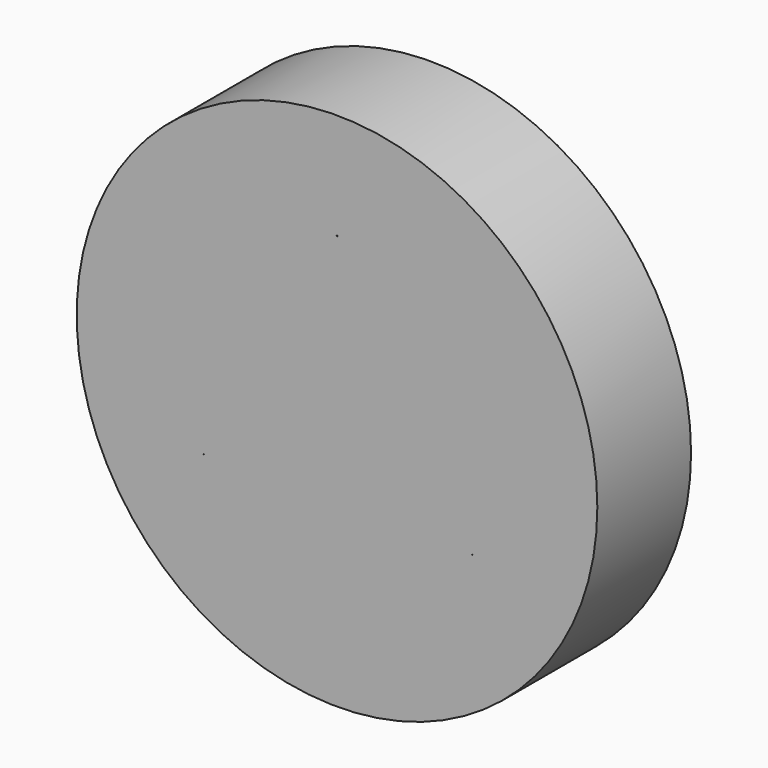
from build123d import *

# Parameters (mm, degrees)
F0_R     = 84.671191
F1_DEPTH = 31.75
F2_R     = 84.671191
F3_DEPTH = 6.35
F5_D     = 0.254


with BuildPart() as f1:
    # F0 (on Front) → F1 (new body)
    with BuildSketch(Plane.XZ):
        Circle(F0_R)
        with BuildLine():
            ThreePointArc((78.296166, 1.754441), (78.310906, 0.877275), (78.31582, 0))
            ThreePointArc((78.31582, 0), (78.310902, -0.877705), (78.296147, -1.755299))
            ThreePointArc((78.296147, -1.755299), (78.241262, -3.416517), (78.151135, -5.076196))
            ThreePointArc((78.151135, -5.076196), (78.017767, -6.826101), (77.845222, -8.572578))
            ThreePointArc((77.845222, -8.572578), (77.645761, -10.222691), (77.411327, -11.8682))
            ThreePointArc((77.411327, -11.8682), (77.125952, -13.599822), (76.801848, -15.324615))
            ThreePointArc((76.801848, -15.324615), (76.459329, -16.951065), (76.082371, -18.569879))
            ThreePointArc((76.082371, -18.569879), (75.647162, -20.27004), (75.173965, -21.960022))
            ThreePointArc((75.173965, -21.960022), (74.690996, -23.550431), (74.174383, -25.130231))
            ThreePointArc((74.174383, -25.130231), (73.592651, -26.785991), (72.973964, -28.428301))
            ThreePointArc((72.973964, -28.428301), (72.354219, -29.970563), (71.701884, -31.499326))
            ThreePointArc((71.701884, -31.499326), (70.978056, -33.098085), (70.218586, -34.680222))
            ThreePointArc((70.218586, -34.680222), (69.466783, -36.162602), (68.683689, -37.628693))
            ThreePointArc((68.683689, -37.628693), (67.823275, -39.158282), (66.928803, -40.668207))
            ThreePointArc((66.928803, -40.668207), (66.050662, -42.079421), (65.14277, -43.471682))
            ThreePointArc((65.14277, -43.471682), (64.152318, -44.920461), (63.129651, -46.346681))
            ThreePointArc((63.129651, -46.346681), (62.131856, -47.675991), (61.106076, -48.983826))
            ThreePointArc((61.106076, -48.983826), (59.993123, -50.340768), (58.850044, -51.67243))
            ThreePointArc((58.850044, -51.67243), (57.740189, -52.909718), (56.604327, -54.123173))
            ThreePointArc((56.604327, -54.123173), (55.377344, -55.377951), (54.122553, -56.60492))
            ThreePointArc((54.122553, -56.60492), (52.909085, -57.740769), (51.671785, -58.85061))
            ThreePointArc((51.671785, -58.85061), (50.34011, -59.993675), (48.983156, -61.106612))
            ThreePointArc((48.983156, -61.106612), (47.67531, -62.132379), (46.34599, -63.130159))
            ThreePointArc((46.34599, -63.130159), (44.919757, -64.15281), (43.470968, -65.143247))
            ThreePointArc((43.470968, -65.143247), (42.078697, -66.051123), (40.667473, -66.929248))
            ThreePointArc((40.667473, -66.929248), (39.157538, -67.823704), (37.62794, -68.684102))
            ThreePointArc((37.62794, -68.684102), (36.161841, -69.467179), (34.679453, -70.218966))
            ThreePointArc((34.679453, -70.218966), (33.097307, -70.978419), (31.49854, -71.702229))
            ThreePointArc((31.49854, -71.702229), (29.96977, -72.354547), (28.427501, -72.974275))
            ThreePointArc((28.427501, -72.974275), (26.785185, -73.592945), (25.129418, -74.174659))
            ThreePointArc((25.129418, -74.174659), (23.549612, -74.691254), (21.959199, -75.174206))
            ThreePointArc((21.959199, -75.174206), (20.269211, -75.647384), (18.569045, -76.082575))
            ThreePointArc((18.569045, -76.082575), (16.950227, -76.459515), (15.323773, -76.802016))
            ThreePointArc((15.323773, -76.802016), (13.598977, -77.126101), (11.867351, -77.411457))
            ThreePointArc((11.867351, -77.411457), (10.22184, -77.645873), (8.571725, -77.845316))
            ThreePointArc((8.571725, -77.845316), (6.825246, -78.017842), (5.075339, -78.151191))
            ThreePointArc((5.075339, -78.151191), (3.415659, -78.241299), (1.754441, -78.296166))
            ThreePointArc((1.754441, -78.296166), (-0.000429, -78.31582), (-1.755299, -78.296147))
            ThreePointArc((-1.755299, -78.296147), (-3.416517, -78.241262), (-5.076196, -78.151135))
            ThreePointArc((-5.076196, -78.151135), (-6.826101, -78.017767), (-8.572578, -77.845222))
            ThreePointArc((-8.572578, -77.845222), (-10.222691, -77.645761), (-11.8682, -77.411327))
            ThreePointArc((-11.8682, -77.411327), (-13.599822, -77.125952), (-15.324615, -76.801848))
            ThreePointArc((-15.324615, -76.801848), (-16.951065, -76.459329), (-18.569879, -76.082371))
            ThreePointArc((-18.569879, -76.082371), (-20.27004, -75.647162), (-21.960022, -75.173965))
            ThreePointArc((-21.960022, -75.173965), (-23.550431, -74.690996), (-25.130231, -74.174383))
            ThreePointArc((-25.130231, -74.174383), (-26.785991, -73.592651), (-28.428301, -72.973964))
            ThreePointArc((-28.428301, -72.973964), (-29.970563, -72.354219), (-31.499326, -71.701884))
            ThreePointArc((-31.499326, -71.701884), (-33.098085, -70.978056), (-34.680222, -70.218586))
            ThreePointArc((-34.680222, -70.218586), (-36.162602, -69.466783), (-37.628693, -68.683689))
            ThreePointArc((-37.628693, -68.683689), (-39.158282, -67.823275), (-40.668207, -66.928803))
            ThreePointArc((-40.668207, -66.928803), (-42.079421, -66.050662), (-43.471682, -65.14277))
            ThreePointArc((-43.471682, -65.14277), (-44.920461, -64.152318), (-46.346681, -63.129651))
            ThreePointArc((-46.346681, -63.129651), (-47.675991, -62.131856), (-48.983826, -61.106076))
            ThreePointArc((-48.983826, -61.106076), (-50.340768, -59.993123), (-51.67243, -58.850044))
            ThreePointArc((-51.67243, -58.850044), (-52.909718, -57.740189), (-54.123173, -56.604327))
            ThreePointArc((-54.123173, -56.604327), (-55.377951, -55.377344), (-56.60492, -54.122553))
            ThreePointArc((-56.60492, -54.122553), (-57.740769, -52.909085), (-58.85061, -51.671785))
            ThreePointArc((-58.85061, -51.671785), (-59.993675, -50.34011), (-61.106612, -48.983156))
            ThreePointArc((-61.106612, -48.983156), (-62.132379, -47.67531), (-63.130159, -46.34599))
            ThreePointArc((-63.130159, -46.34599), (-64.15281, -44.919757), (-65.143247, -43.470968))
            ThreePointArc((-65.143247, -43.470968), (-66.051123, -42.078697), (-66.929248, -40.667473))
            ThreePointArc((-66.929248, -40.667473), (-67.823704, -39.157538), (-68.684102, -37.62794))
            ThreePointArc((-68.684102, -37.62794), (-69.467179, -36.161841), (-70.218966, -34.679453))
            ThreePointArc((-70.218966, -34.679453), (-70.978419, -33.097307), (-71.702229, -31.49854))
            ThreePointArc((-71.702229, -31.49854), (-72.354547, -29.96977), (-72.974275, -28.427501))
            ThreePointArc((-72.974275, -28.427501), (-73.592945, -26.785185), (-74.174659, -25.129418))
            ThreePointArc((-74.174659, -25.129418), (-74.691254, -23.549612), (-75.174206, -21.959199))
            ThreePointArc((-75.174206, -21.959199), (-75.647384, -20.269211), (-76.082575, -18.569045))
            ThreePointArc((-76.082575, -18.569045), (-76.459515, -16.950227), (-76.802016, -15.323773))
            ThreePointArc((-76.802016, -15.323773), (-77.126101, -13.598977), (-77.411457, -11.867351))
            ThreePointArc((-77.411457, -11.867351), (-77.645873, -10.22184), (-77.845316, -8.571725))
            ThreePointArc((-77.845316, -8.571725), (-78.017842, -6.825246), (-78.151191, -5.075339))
            ThreePointArc((-78.151191, -5.075339), (-78.241299, -3.415659), (-78.296166, -1.754441))
            ThreePointArc((-78.296166, -1.754441), (-78.31582, 0.000429), (-78.296147, 1.755299))
            ThreePointArc((-78.296147, 1.755299), (-78.241262, 3.416517), (-78.151135, 5.076196))
            ThreePointArc((-78.151135, 5.076196), (-78.017767, 6.826101), (-77.845222, 8.572578))
            ThreePointArc((-77.845222, 8.572578), (-77.645761, 10.222691), (-77.411327, 11.8682))
            ThreePointArc((-77.411327, 11.8682), (-77.125952, 13.599822), (-76.801848, 15.324615))
            ThreePointArc((-76.801848, 15.324615), (-76.459329, 16.951065), (-76.082371, 18.569879))
            ThreePointArc((-76.082371, 18.569879), (-75.647162, 20.27004), (-75.173965, 21.960022))
            ThreePointArc((-75.173965, 21.960022), (-74.690996, 23.550431), (-74.174383, 25.130231))
            ThreePointArc((-74.174383, 25.130231), (-73.592651, 26.785991), (-72.973964, 28.428301))
            ThreePointArc((-72.973964, 28.428301), (-72.354219, 29.970563), (-71.701884, 31.499326))
            ThreePointArc((-71.701884, 31.499326), (-70.978056, 33.098085), (-70.218586, 34.680222))
            ThreePointArc((-70.218586, 34.680222), (-69.466783, 36.162602), (-68.683689, 37.628693))
            ThreePointArc((-68.683689, 37.628693), (-67.823275, 39.158282), (-66.928803, 40.668207))
            ThreePointArc((-66.928803, 40.668207), (-66.050662, 42.079421), (-65.14277, 43.471682))
            ThreePointArc((-65.14277, 43.471682), (-64.152318, 44.920461), (-63.129651, 46.346681))
            ThreePointArc((-63.129651, 46.346681), (-62.131856, 47.675991), (-61.106076, 48.983826))
            ThreePointArc((-61.106076, 48.983826), (-59.993123, 50.340768), (-58.850044, 51.67243))
            ThreePointArc((-58.850044, 51.67243), (-57.740189, 52.909718), (-56.604327, 54.123173))
            ThreePointArc((-56.604327, 54.123173), (-55.377344, 55.377951), (-54.122553, 56.60492))
            ThreePointArc((-54.122553, 56.60492), (-52.909085, 57.740769), (-51.671785, 58.85061))
            ThreePointArc((-51.671785, 58.85061), (-50.34011, 59.993675), (-48.983156, 61.106612))
            ThreePointArc((-48.983156, 61.106612), (-47.67531, 62.132379), (-46.34599, 63.130159))
            ThreePointArc((-46.34599, 63.130159), (-44.919757, 64.15281), (-43.470968, 65.143247))
            ThreePointArc((-43.470968, 65.143247), (-42.078697, 66.051123), (-40.667473, 66.929248))
            ThreePointArc((-40.667473, 66.929248), (-39.157538, 67.823704), (-37.62794, 68.684102))
            ThreePointArc((-37.62794, 68.684102), (-36.161841, 69.467179), (-34.679453, 70.218966))
            ThreePointArc((-34.679453, 70.218966), (-33.097307, 70.978419), (-31.49854, 71.702229))
            ThreePointArc((-31.49854, 71.702229), (-29.96977, 72.354547), (-28.427501, 72.974275))
            ThreePointArc((-28.427501, 72.974275), (-26.785185, 73.592945), (-25.129418, 74.174659))
            ThreePointArc((-25.129418, 74.174659), (-23.549612, 74.691254), (-21.959199, 75.174206))
            ThreePointArc((-21.959199, 75.174206), (-20.269211, 75.647384), (-18.569045, 76.082575))
            ThreePointArc((-18.569045, 76.082575), (-16.950227, 76.459515), (-15.323773, 76.802016))
            ThreePointArc((-15.323773, 76.802016), (-13.598977, 77.126101), (-11.867351, 77.411457))
            ThreePointArc((-11.867351, 77.411457), (-10.22184, 77.645873), (-8.571725, 77.845316))
            ThreePointArc((-8.571725, 77.845316), (-6.825246, 78.017842), (-5.075339, 78.151191))
            ThreePointArc((-5.075339, 78.151191), (-3.415659, 78.241299), (-1.754441, 78.296166))
            ThreePointArc((-1.754441, 78.296166), (0.000429, 78.31582), (1.755299, 78.296147))
            ThreePointArc((1.755299, 78.296147), (3.416517, 78.241262), (5.076196, 78.151135))
            ThreePointArc((5.076196, 78.151135), (6.826101, 78.017767), (8.572578, 77.845222))
            ThreePointArc((8.572578, 77.845222), (10.222691, 77.645761), (11.8682, 77.411327))
            ThreePointArc((11.8682, 77.411327), (13.599822, 77.125952), (15.324615, 76.801848))
            ThreePointArc((15.324615, 76.801848), (16.951065, 76.459329), (18.569879, 76.082371))
            ThreePointArc((18.569879, 76.082371), (20.27004, 75.647162), (21.960022, 75.173965))
            ThreePointArc((21.960022, 75.173965), (23.550431, 74.690996), (25.130231, 74.174383))
            ThreePointArc((25.130231, 74.174383), (26.785991, 73.592651), (28.428301, 72.973964))
            ThreePointArc((28.428301, 72.973964), (29.970563, 72.354219), (31.499326, 71.701884))
            ThreePointArc((31.499326, 71.701884), (33.098085, 70.978056), (34.680222, 70.218586))
            ThreePointArc((34.680222, 70.218586), (36.162602, 69.466783), (37.628693, 68.683689))
            ThreePointArc((37.628693, 68.683689), (39.158282, 67.823275), (40.668207, 66.928803))
            ThreePointArc((40.668207, 66.928803), (42.079421, 66.050662), (43.471682, 65.14277))
            ThreePointArc((43.471682, 65.14277), (44.920461, 64.152318), (46.346681, 63.129651))
            ThreePointArc((46.346681, 63.129651), (47.675991, 62.131856), (48.983826, 61.106076))
            ThreePointArc((48.983826, 61.106076), (50.340768, 59.993123), (51.67243, 58.850044))
            ThreePointArc((51.67243, 58.850044), (52.909718, 57.740189), (54.123173, 56.604327))
            ThreePointArc((54.123173, 56.604327), (55.377951, 55.377344), (56.60492, 54.122553))
            ThreePointArc((56.60492, 54.122553), (57.740769, 52.909085), (58.85061, 51.671785))
            ThreePointArc((58.85061, 51.671785), (59.993675, 50.34011), (61.106612, 48.983156))
            ThreePointArc((61.106612, 48.983156), (62.132379, 47.67531), (63.130159, 46.34599))
            ThreePointArc((63.130159, 46.34599), (64.15281, 44.919757), (65.143247, 43.470968))
            ThreePointArc((65.143247, 43.470968), (66.051123, 42.078697), (66.929248, 40.667473))
            ThreePointArc((66.929248, 40.667473), (67.823704, 39.157538), (68.684102, 37.62794))
            ThreePointArc((68.684102, 37.62794), (69.467179, 36.161841), (70.218966, 34.679453))
            ThreePointArc((70.218966, 34.679453), (70.978419, 33.097307), (71.702229, 31.49854))
            ThreePointArc((71.702229, 31.49854), (72.354547, 29.96977), (72.974275, 28.427501))
            ThreePointArc((72.974275, 28.427501), (73.592945, 26.785185), (74.174659, 25.129418))
            ThreePointArc((74.174659, 25.129418), (74.691254, 23.549612), (75.174206, 21.959199))
            ThreePointArc((75.174206, 21.959199), (75.647384, 20.269211), (76.082575, 18.569045))
            ThreePointArc((76.082575, 18.569045), (76.459515, 16.950227), (76.802016, 15.323773))
            ThreePointArc((76.802016, 15.323773), (77.126101, 13.598977), (77.411457, 11.867351))
            ThreePointArc((77.411457, 11.867351), (77.645873, 10.22184), (77.845316, 8.571725))
            ThreePointArc((77.845316, 8.571725), (78.017842, 6.825246), (78.151191, 5.075339))
            ThreePointArc((78.151191, 5.075339), (78.241299, 3.415659), (78.296166, 1.754441))
        make_face(mode=Mode.SUBTRACT)
        with BuildLine():
            Line((-75.810351, 8.439206), (-77.845222, 8.572578))
            ThreePointArc((-77.845222, 8.572578), (-78.017767, 6.826101), (-78.151135, 5.076196))
            Line((-78.151135, 5.076196), (-76.039845, 4.937815))
            ThreePointArc((-76.039845, 4.937815), (-74.938509, 5.299344), (-73.8612, 5.727188))
            Line((-73.8612, 5.727188), (-73.797472, 6.549058))
            Line((-73.797472, 6.549058), (-73.753379, 7.372215))
            ThreePointArc((-73.753379, 7.372215), (-74.765627, 7.937016), (-75.810351, 8.439206))
        make_face()
        with BuildLine():
            Line((-74.786345, 15.0144), (-76.801848, 15.324615))
            ThreePointArc((-76.801848, 15.324615), (-77.125952, 13.599822), (-77.411327, 11.8682))
            Line((-77.411327, 11.8682), (-75.320131, 11.546334))
            ThreePointArc((-75.320131, 11.546334), (-74.191477, 11.8105), (-73.080979, 12.142822))
            Line((-73.080979, 12.142822), (-72.945863, 12.956011))
            Line((-72.945863, 12.956011), (-72.830194, 13.772192))
            ThreePointArc((-72.830194, 13.772192), (-73.789364, 14.423067), (-74.786345, 15.0144))
        make_face()
        with BuildLine():
            Line((-73.193169, 21.475325), (-75.173965, 21.960022))
            ThreePointArc((-75.173965, 21.960022), (-75.647162, 20.27004), (-76.082371, 18.569879))
            Line((-76.082371, 18.569879), (-74.027186, 18.066979))
            ThreePointArc((-74.027186, 18.066979), (-72.879803, 18.231771), (-71.744567, 18.466042))
            Line((-71.744567, 18.466042), (-71.539091, 19.26436))
            Line((-71.539091, 19.26436), (-71.352728, 20.067355))
            ThreePointArc((-71.352728, 20.067355), (-72.251521, 20.79935), (-73.193169, 21.475325))
        make_face()
        with BuildLine():
            Line((-71.042949, 27.77281), (-72.973964, 28.428301))
            ThreePointArc((-72.973964, 28.428301), (-73.592651, 26.785991), (-74.174383, 25.130231))
            Line((-74.174383, 25.130231), (-72.170849, 24.450123))
            ThreePointArc((-72.170849, 24.450123), (-71.01347, 24.514287), (-69.862135, 24.648724))
            Line((-69.862135, 24.648724), (-69.587863, 25.426096))
            Line((-69.587863, 25.426096), (-69.332224, 26.209792))
            ThreePointArc((-69.332224, 26.209792), (-70.163799, 27.017337), (-71.042949, 27.77281))
        make_face()
        with BuildLine():
            Line((-68.352049, 33.858927), (-70.218586, 34.680222))
            ThreePointArc((-70.218586, 34.680222), (-70.978056, 33.098085), (-71.701884, 31.499326))
            Line((-71.701884, 31.499326), (-69.765249, 30.647187))
            ThreePointArc((-69.765249, 30.647187), (-68.606681, 30.610234), (-67.448011, 30.643815))
            Line((-67.448011, 30.643815), (-67.10703, 31.394324))
            Line((-67.10703, 31.394324), (-66.78406, 32.152758))
            ThreePointArc((-66.78406, 32.152758), (-67.542088, 33.029706), (-68.352049, 33.858927))
        make_face()
        with BuildLine():
            Line((-65.140949, 39.687357), (-66.928803, 40.668207))
            ThreePointArc((-66.928803, 40.668207), (-67.823275, 39.158282), (-68.683689, 37.628693))
            Line((-68.683689, 37.628693), (-66.828693, 36.611007))
            ThreePointArc((-66.828693, 36.611007), (-65.677754, 36.473219), (-64.520567, 36.405687))
            Line((-64.520567, 36.405687), (-64.115472, 37.123622))
            Line((-64.115472, 37.123622), (-63.727629, 37.851021))
            ThreePointArc((-63.727629, 37.851021), (-64.406342, 38.790698), (-65.140949, 39.687357))
        make_face()
        with BuildLine():
            Line((-61.434087, 45.213742), (-63.129651, 46.346681))
            ThreePointArc((-63.129651, 46.346681), (-64.152318, 44.920461), (-65.14277, 43.471682))
            Line((-65.14277, 43.471682), (-63.38353, 42.296195))
            ThreePointArc((-63.38353, 42.296195), (-62.24898, 42.058621), (-61.102082, 41.89049))
            Line((-61.102082, 41.89049), (-60.635957, 42.570387))
            Line((-60.635957, 42.570387), (-60.186192, 43.261215))
            ThreePointArc((-60.186192, 43.261215), (-60.780424, 44.256471), (-61.434087, 45.213742))
        make_face()
        with BuildLine():
            Line((-57.259675, 50.396024), (-58.850044, 51.67243))
            ThreePointArc((-58.850044, 51.67243), (-59.993123, 50.340768), (-61.106076, 48.983826))
            Line((-61.106076, 48.983826), (-59.45598, 47.659484))
            ThreePointArc((-59.45598, 47.659484), (-58.346454, 47.323932), (-57.218573, 47.056482))
            Line((-57.218573, 47.056482), (-56.694965, 47.693166))
            Line((-56.694965, 47.693166), (-56.186702, 48.342166))
            ThreePointArc((-56.186702, 48.342166), (-56.691931, 49.385424), (-57.259675, 50.396024))
        make_face()
        with BuildLine():
            Line((-52.649482, 55.194761), (-54.122553, 56.60492))
            ThreePointArc((-54.122553, 56.60492), (-55.377344, 55.377951), (-56.604327, 54.123173))
            Line((-56.604327, 54.123173), (-55.075934, 52.660056))
            ThreePointArc((-55.075934, 52.660056), (-53.999875, 52.229078), (-52.899596, 51.864345))
            Line((-52.899596, 51.864345), (-52.32249, 52.452971))
            Line((-52.32249, 52.452971), (-51.759598, 53.055203))
            ThreePointArc((-51.759598, 53.055203), (-52.171977, 54.138525), (-52.649482, 55.194761))
        make_face()
        with BuildLine():
            Line((-47.638594, 59.573433), (-48.983156, 61.106612))
            ThreePointArc((-48.983156, 61.106612), (-50.34011, 59.993675), (-51.671785, 58.85061))
            Line((-51.671785, 58.85061), (-50.276728, 57.259852))
            ThreePointArc((-50.276728, 57.259852), (-49.242325, 56.73673), (-48.178022, 56.277489))
            Line((-48.178022, 56.277489), (-47.55181, 56.813577))
            Line((-47.55181, 56.813577), (-46.938571, 57.364458))
            ThreePointArc((-46.938571, 57.364458), (-47.254964, 58.479599), (-47.638594, 59.573433))
        make_face()
        with BuildLine():
            Line((-42.265148, 63.498715), (-43.470968, 65.143247))
            ThreePointArc((-43.470968, 65.143247), (-44.919757, 64.15281), (-46.34599, 63.130159))
            Line((-46.34599, 63.130159), (-45.094885, 61.423867))
            ThreePointArc((-45.094885, 61.423867), (-44.110012, 60.812581), (-43.089784, 60.262327))
            Line((-43.089784, 60.262327), (-42.419231, 60.741797))
            Line((-42.419231, 60.741797), (-41.760314, 61.237135))
            ThreePointArc((-41.760314, 61.237135), (-41.978312, 62.375608), (-42.265148, 63.498715))
        make_face()
        with BuildLine():
            Line((-36.570039, 66.940734), (-37.62794, 68.684102))
            ThreePointArc((-37.62794, 68.684102), (-39.157538, 67.823704), (-40.667473, 66.929248))
            Line((-40.667473, 66.929248), (-39.569842, 65.120408))
            ThreePointArc((-39.569842, 65.120408), (-38.641994, 64.425612), (-37.673606, 63.788533))
            Line((-37.673606, 63.788533), (-36.963817, 64.207736))
            Line((-36.963817, 64.207736), (-36.264235, 64.64376))
            ThreePointArc((-36.264235, 64.64376), (-36.382179, 65.796901), (-36.570039, 66.940734))
        make_face()
        with BuildLine():
            Line((-30.596609, 69.873293), (-31.49854, 71.702229))
            ThreePointArc((-31.49854, 71.702229), (-33.097307, 70.978419), (-34.679453, 70.218966))
            Line((-34.679453, 70.218966), (-33.743649, 68.321345))
            ThreePointArc((-33.743649, 68.321345), (-32.879888, 67.548325), (-31.97071, 66.82927))
            Line((-31.97071, 66.82927), (-31.227085, 67.185015))
            Line((-31.227085, 67.185015), (-30.492164, 67.558408))
            ThreePointArc((-30.492164, 67.558408), (-30.509156, 68.71744), (-30.596609, 69.873293))
        make_face()
        with BuildLine():
            Line((-24.390321, 72.274074), (-25.129418, 74.174659))
            ThreePointArc((-25.129418, 74.174659), (-26.785185, 73.592945), (-28.427501, 72.974275))
            Line((-28.427501, 72.974275), (-27.660647, 71.002314))
            ThreePointArc((-27.660647, 71.002314), (-26.867545, 70.156954), (-26.024497, 69.361395))
            Line((-26.024497, 69.361395), (-25.252697, 69.650975))
            Line((-25.252697, 69.650975), (-24.488029, 69.958895))
            ThreePointArc((-24.488029, 69.958895), (-24.40394, 71.114998), (-24.390321, 72.274074))
        make_face()
        with BuildLine():
            Line((-17.998408, 74.124806), (-18.569045, 76.082575))
            ThreePointArc((-18.569045, 76.082575), (-20.269211, 75.647384), (-21.959199, 75.174206))
            Line((-21.959199, 75.174206), (-21.367131, 73.142913))
            ThreePointArc((-21.367131, 73.142913), (-20.650725, 72.231646), (-19.880222, 71.365638))
            Line((-19.880222, 71.365638), (-19.08612, 71.58685))
            Line((-19.08612, 71.58685), (-18.297525, 71.826952))
            ThreePointArc((-18.297525, 71.826952), (-18.112995, 72.971327), (-17.998408, 74.124806))
        make_face()
        with BuildLine():
            Line((-11.469516, 75.411404), (-11.867351, 77.411457))
            ThreePointArc((-11.867351, 77.411457), (-13.598977, 77.126101), (-15.323773, 76.802016))
            Line((-15.323773, 76.802016), (-14.910997, 74.72685))
            ThreePointArc((-14.910997, 74.72685), (-14.27674, 73.756612), (-13.584646, 72.826746))
            Line((-13.584646, 72.826746), (-12.774287, 72.977905))
            Line((-12.774287, 72.977905), (-11.967766, 73.148364))
            ThreePointArc((-11.967766, 73.148364), (-11.6842, 74.272301), (-11.469516, 75.411404))
        make_face()
        with BuildLine():
            Line((-4.853334, 76.124075), (-5.075339, 78.151191))
            ThreePointArc((-5.075339, 78.151191), (-6.825246, 78.017842), (-8.571725, 77.845316))
            Line((-8.571725, 77.845316), (-8.341382, 75.742071))
            ThreePointArc((-8.341382, 75.742071), (-7.7941, 74.720246), (-7.185684, 73.733598))
            Line((-7.185684, 73.733598), (-6.365233, 73.813555))
            Line((-6.365233, 73.813555), (-5.546925, 73.913071))
            ThreePointArc((-5.546925, 73.913071), (-5.16648, 75.008017), (-4.853334, 76.124075))
        make_face()
        with BuildLine():
            Line((1.799785, 76.257395), (1.755299, 78.296147))
            ThreePointArc((1.755299, 78.296147), (0.000429, 78.31582), (-1.754441, 78.296166))
            Line((-1.754441, 78.296166), (-1.708284, 76.180849))
            ThreePointArc((-1.708284, 76.180849), (-1.252143, 75.115213), (-0.732033, 74.079293))
            Line((-0.732033, 74.079293), (0.092264, 74.087439))
            Line((0.092264, 74.087439), (0.916131, 74.115256))
            ThreePointArc((0.916131, 74.115256), (1.390559, 75.172877), (1.799785, 76.257395))
        make_face()
        with BuildLine():
            Line((8.439206, 75.810351), (8.572578, 77.845222))
            ThreePointArc((8.572578, 77.845222), (6.826101, 78.017767), (5.076196, 78.151135))
            Line((5.076196, 78.151135), (4.937815, 76.039845))
            ThreePointArc((4.937815, 76.039845), (5.299344, 74.938509), (5.727188, 73.8612))
            Line((5.727188, 73.8612), (6.549058, 73.797472))
            Line((6.549058, 73.797472), (7.372215, 73.753379))
            ThreePointArc((7.372215, 73.753379), (7.937016, 74.765627), (8.439206, 75.810351))
        make_face()
        with BuildLine():
            Line((15.0144, 74.786345), (15.324615, 76.801848))
            ThreePointArc((15.324615, 76.801848), (13.599822, 77.125952), (11.8682, 77.411327))
            Line((11.8682, 77.411327), (11.546334, 75.320131))
            ThreePointArc((11.546334, 75.320131), (11.8105, 74.191477), (12.142822, 73.080979))
            Line((12.142822, 73.080979), (12.956011, 72.945863))
            Line((12.956011, 72.945863), (13.772192, 72.830194))
            ThreePointArc((13.772192, 72.830194), (14.423067, 73.789364), (15.0144, 74.786345))
        make_face()
        with BuildLine():
            Line((21.475325, 73.193169), (21.960022, 75.173965))
            ThreePointArc((21.960022, 75.173965), (20.27004, 75.647162), (18.569879, 76.082371))
            Line((18.569879, 76.082371), (18.066979, 74.027186))
            ThreePointArc((18.066979, 74.027186), (18.231771, 72.879803), (18.466042, 71.744567))
            Line((18.466042, 71.744567), (19.26436, 71.539091))
            Line((19.26436, 71.539091), (20.067355, 71.352728))
            ThreePointArc((20.067355, 71.352728), (20.79935, 72.251521), (21.475325, 73.193169))
        make_face()
        with BuildLine():
            Line((27.77281, 71.042949), (28.428301, 72.973964))
            ThreePointArc((28.428301, 72.973964), (26.785991, 73.592651), (25.130231, 74.174383))
            Line((25.130231, 74.174383), (24.450123, 72.170849))
            ThreePointArc((24.450123, 72.170849), (24.514287, 71.01347), (24.648724, 69.862135))
            Line((24.648724, 69.862135), (25.426096, 69.587863))
            Line((25.426096, 69.587863), (26.209792, 69.332224))
            ThreePointArc((26.209792, 69.332224), (27.017337, 70.163799), (27.77281, 71.042949))
        make_face()
        with BuildLine():
            Line((33.858927, 68.352049), (34.680222, 70.218586))
            ThreePointArc((34.680222, 70.218586), (33.098085, 70.978056), (31.499326, 71.701884))
            Line((31.499326, 71.701884), (30.647187, 69.765249))
            ThreePointArc((30.647187, 69.765249), (30.610234, 68.606681), (30.643815, 67.448011))
            Line((30.643815, 67.448011), (31.394324, 67.10703))
            Line((31.394324, 67.10703), (32.152758, 66.78406))
            ThreePointArc((32.152758, 66.78406), (33.029706, 67.542088), (33.858927, 68.352049))
        make_face()
        with BuildLine():
            Line((39.687357, 65.140949), (40.668207, 66.928803))
            ThreePointArc((40.668207, 66.928803), (39.158282, 67.823275), (37.628693, 68.683689))
            Line((37.628693, 68.683689), (36.611007, 66.828693))
            ThreePointArc((36.611007, 66.828693), (36.473219, 65.677754), (36.405687, 64.520567))
            Line((36.405687, 64.520567), (37.123622, 64.115472))
            Line((37.123622, 64.115472), (37.851021, 63.727629))
            ThreePointArc((37.851021, 63.727629), (38.790698, 64.406342), (39.687357, 65.140949))
        make_face()
        with BuildLine():
            Line((45.213742, 61.434087), (46.346681, 63.129651))
            ThreePointArc((46.346681, 63.129651), (44.920461, 64.152318), (43.471682, 65.14277))
            Line((43.471682, 65.14277), (42.296195, 63.38353))
            ThreePointArc((42.296195, 63.38353), (42.058621, 62.24898), (41.89049, 61.102082))
            Line((41.89049, 61.102082), (42.570387, 60.635957))
            Line((42.570387, 60.635957), (43.261215, 60.186192))
            ThreePointArc((43.261215, 60.186192), (44.256471, 60.780424), (45.213742, 61.434087))
        make_face()
        with BuildLine():
            Line((50.396024, 57.259675), (51.67243, 58.850044))
            ThreePointArc((51.67243, 58.850044), (50.340768, 59.993123), (48.983826, 61.106076))
            Line((48.983826, 61.106076), (47.659484, 59.45598))
            ThreePointArc((47.659484, 59.45598), (47.323932, 58.346454), (47.056482, 57.218573))
            Line((47.056482, 57.218573), (47.693166, 56.694965))
            Line((47.693166, 56.694965), (48.342166, 56.186702))
            ThreePointArc((48.342166, 56.186702), (49.385424, 56.691931), (50.396024, 57.259675))
        make_face()
        with BuildLine():
            Line((55.194761, 52.649482), (56.60492, 54.122553))
            ThreePointArc((56.60492, 54.122553), (55.377951, 55.377344), (54.123173, 56.604327))
            Line((54.123173, 56.604327), (52.660056, 55.075934))
            ThreePointArc((52.660056, 55.075934), (52.229078, 53.999875), (51.864345, 52.899596))
            Line((51.864345, 52.899596), (52.452971, 52.32249))
            Line((52.452971, 52.32249), (53.055203, 51.759598))
            ThreePointArc((53.055203, 51.759598), (54.138525, 52.171977), (55.194761, 52.649482))
        make_face()
        with BuildLine():
            Line((59.573433, 47.638594), (61.106612, 48.983156))
            ThreePointArc((61.106612, 48.983156), (59.993675, 50.34011), (58.85061, 51.671785))
            Line((58.85061, 51.671785), (57.259852, 50.276728))
            ThreePointArc((57.259852, 50.276728), (56.73673, 49.242325), (56.277489, 48.178022))
            Line((56.277489, 48.178022), (56.813577, 47.55181))
            Line((56.813577, 47.55181), (57.364458, 46.938571))
            ThreePointArc((57.364458, 46.938571), (58.479599, 47.254964), (59.573433, 47.638594))
        make_face()
        with BuildLine():
            Line((63.498715, 42.265148), (65.143247, 43.470968))
            ThreePointArc((65.143247, 43.470968), (64.15281, 44.919757), (63.130159, 46.34599))
            Line((63.130159, 46.34599), (61.423867, 45.094885))
            ThreePointArc((61.423867, 45.094885), (60.812581, 44.110012), (60.262327, 43.089784))
            Line((60.262327, 43.089784), (60.741797, 42.419231))
            Line((60.741797, 42.419231), (61.237135, 41.760314))
            ThreePointArc((61.237135, 41.760314), (62.375608, 41.978312), (63.498715, 42.265148))
        make_face()
        with BuildLine():
            Line((66.940734, 36.570039), (68.684102, 37.62794))
            ThreePointArc((68.684102, 37.62794), (67.823704, 39.157538), (66.929248, 40.667473))
            Line((66.929248, 40.667473), (65.120408, 39.569842))
            ThreePointArc((65.120408, 39.569842), (64.425612, 38.641994), (63.788533, 37.673606))
            Line((63.788533, 37.673606), (64.207736, 36.963817))
            Line((64.207736, 36.963817), (64.64376, 36.264235))
            ThreePointArc((64.64376, 36.264235), (65.796901, 36.382179), (66.940734, 36.570039))
        make_face()
        with BuildLine():
            Line((69.873293, 30.596609), (71.702229, 31.49854))
            ThreePointArc((71.702229, 31.49854), (70.978419, 33.097307), (70.218966, 34.679453))
            Line((70.218966, 34.679453), (68.321345, 33.743649))
            ThreePointArc((68.321345, 33.743649), (67.548325, 32.879888), (66.82927, 31.97071))
            Line((66.82927, 31.97071), (67.185015, 31.227085))
            Line((67.185015, 31.227085), (67.558408, 30.492164))
            ThreePointArc((67.558408, 30.492164), (68.71744, 30.509156), (69.873293, 30.596609))
        make_face()
        with BuildLine():
            Line((72.274074, 24.390321), (74.174659, 25.129418))
            ThreePointArc((74.174659, 25.129418), (73.592945, 26.785185), (72.974275, 28.427501))
            Line((72.974275, 28.427501), (71.002314, 27.660647))
            ThreePointArc((71.002314, 27.660647), (70.156954, 26.867545), (69.361395, 26.024497))
            Line((69.361395, 26.024497), (69.650975, 25.252697))
            Line((69.650975, 25.252697), (69.958895, 24.488029))
            ThreePointArc((69.958895, 24.488029), (71.114998, 24.40394), (72.274074, 24.390321))
        make_face()
        with BuildLine():
            Line((74.124806, 17.998408), (76.082575, 18.569045))
            ThreePointArc((76.082575, 18.569045), (75.647384, 20.269211), (75.174206, 21.959199))
            Line((75.174206, 21.959199), (73.142913, 21.367131))
            ThreePointArc((73.142913, 21.367131), (72.231646, 20.650725), (71.365638, 19.880222))
            Line((71.365638, 19.880222), (71.58685, 19.08612))
            Line((71.58685, 19.08612), (71.826952, 18.297525))
            ThreePointArc((71.826952, 18.297525), (72.971327, 18.112995), (74.124806, 17.998408))
        make_face()
        with BuildLine():
            Line((75.411404, 11.469516), (77.411457, 11.867351))
            ThreePointArc((77.411457, 11.867351), (77.126101, 13.598977), (76.802016, 15.323773))
            Line((76.802016, 15.323773), (74.72685, 14.910997))
            ThreePointArc((74.72685, 14.910997), (73.756612, 14.27674), (72.826746, 13.584646))
            Line((72.826746, 13.584646), (72.977905, 12.774287))
            Line((72.977905, 12.774287), (73.148364, 11.967766))
            ThreePointArc((73.148364, 11.967766), (74.272301, 11.6842), (75.411404, 11.469516))
        make_face()
        with BuildLine():
            Line((76.124075, 4.853334), (78.151191, 5.075339))
            ThreePointArc((78.151191, 5.075339), (78.017842, 6.825246), (77.845316, 8.571725))
            Line((77.845316, 8.571725), (75.742071, 8.341382))
            ThreePointArc((75.742071, 8.341382), (74.720246, 7.7941), (73.733598, 7.185684))
            Line((73.733598, 7.185684), (73.813555, 6.365233))
            Line((73.813555, 6.365233), (73.913071, 5.546925))
            ThreePointArc((73.913071, 5.546925), (75.008017, 5.16648), (76.124075, 4.853334))
        make_face()
        with BuildLine():
            ThreePointArc((78.296147, -1.755299), (78.310902, -0.877705), (78.31582, 0))
            ThreePointArc((78.31582, 0), (78.310906, 0.877275), (78.296166, 1.754441))
            Line((78.296166, 1.754441), (76.180849, 1.708284))
            ThreePointArc((76.180849, 1.708284), (75.115213, 1.252143), (74.079293, 0.732033))
            Line((74.079293, 0.732033), (74.087439, -0.092264))
            Line((74.087439, -0.092264), (74.115256, -0.916131))
            ThreePointArc((74.115256, -0.916131), (75.172877, -1.390559), (76.257395, -1.799785))
            Line((76.257395, -1.799785), (78.296147, -1.755299))
        make_face()
        with BuildLine():
            ThreePointArc((77.845222, -8.572578), (78.017767, -6.826101), (78.151135, -5.076196))
            Line((78.151135, -5.076196), (76.039845, -4.937815))
            ThreePointArc((76.039845, -4.937815), (74.938509, -5.299344), (73.8612, -5.727188))
            Line((73.8612, -5.727188), (73.797472, -6.549058))
            Line((73.797472, -6.549058), (73.753379, -7.372215))
            ThreePointArc((73.753379, -7.372215), (74.765627, -7.937016), (75.810351, -8.439206))
            Line((75.810351, -8.439206), (77.845222, -8.572578))
        make_face()
        with BuildLine():
            ThreePointArc((76.801848, -15.324615), (77.125952, -13.599822), (77.411327, -11.8682))
            Line((77.411327, -11.8682), (75.320131, -11.546334))
            ThreePointArc((75.320131, -11.546334), (74.191477, -11.8105), (73.080979, -12.142822))
            Line((73.080979, -12.142822), (72.945863, -12.956011))
            Line((72.945863, -12.956011), (72.830194, -13.772192))
            ThreePointArc((72.830194, -13.772192), (73.789364, -14.423067), (74.786345, -15.0144))
            Line((74.786345, -15.0144), (76.801848, -15.324615))
        make_face()
        with BuildLine():
            ThreePointArc((75.173965, -21.960022), (75.647162, -20.27004), (76.082371, -18.569879))
            Line((76.082371, -18.569879), (74.027186, -18.066979))
            ThreePointArc((74.027186, -18.066979), (72.879803, -18.231771), (71.744567, -18.466042))
            Line((71.744567, -18.466042), (71.539091, -19.26436))
            Line((71.539091, -19.26436), (71.352728, -20.067355))
            ThreePointArc((71.352728, -20.067355), (72.251521, -20.79935), (73.193169, -21.475325))
            Line((73.193169, -21.475325), (75.173965, -21.960022))
        make_face()
        with BuildLine():
            ThreePointArc((72.973964, -28.428301), (73.592651, -26.785991), (74.174383, -25.130231))
            Line((74.174383, -25.130231), (72.170849, -24.450123))
            ThreePointArc((72.170849, -24.450123), (71.01347, -24.514287), (69.862135, -24.648724))
            Line((69.862135, -24.648724), (69.587863, -25.426096))
            Line((69.587863, -25.426096), (69.332224, -26.209792))
            ThreePointArc((69.332224, -26.209792), (70.163799, -27.017337), (71.042949, -27.77281))
            Line((71.042949, -27.77281), (72.973964, -28.428301))
        make_face()
        with BuildLine():
            ThreePointArc((70.218586, -34.680222), (70.978056, -33.098085), (71.701884, -31.499326))
            Line((71.701884, -31.499326), (69.765249, -30.647187))
            ThreePointArc((69.765249, -30.647187), (68.606681, -30.610234), (67.448011, -30.643815))
            Line((67.448011, -30.643815), (67.10703, -31.394324))
            Line((67.10703, -31.394324), (66.78406, -32.152758))
            ThreePointArc((66.78406, -32.152758), (67.542088, -33.029706), (68.352049, -33.858927))
            Line((68.352049, -33.858927), (70.218586, -34.680222))
        make_face()
        with BuildLine():
            ThreePointArc((66.928803, -40.668207), (67.823275, -39.158282), (68.683689, -37.628693))
            Line((68.683689, -37.628693), (66.828693, -36.611007))
            ThreePointArc((66.828693, -36.611007), (65.677754, -36.473219), (64.520567, -36.405687))
            Line((64.520567, -36.405687), (64.115472, -37.123622))
            Line((64.115472, -37.123622), (63.727629, -37.851021))
            ThreePointArc((63.727629, -37.851021), (64.406342, -38.790698), (65.140949, -39.687357))
            Line((65.140949, -39.687357), (66.928803, -40.668207))
        make_face()
        with BuildLine():
            ThreePointArc((63.129651, -46.346681), (64.152318, -44.920461), (65.14277, -43.471682))
            Line((65.14277, -43.471682), (63.38353, -42.296195))
            ThreePointArc((63.38353, -42.296195), (62.24898, -42.058621), (61.102082, -41.89049))
            Line((61.102082, -41.89049), (60.635957, -42.570387))
            Line((60.635957, -42.570387), (60.186192, -43.261215))
            ThreePointArc((60.186192, -43.261215), (60.780424, -44.256471), (61.434087, -45.213742))
            Line((61.434087, -45.213742), (63.129651, -46.346681))
        make_face()
        with BuildLine():
            ThreePointArc((58.850044, -51.67243), (59.993123, -50.340768), (61.106076, -48.983826))
            Line((61.106076, -48.983826), (59.45598, -47.659484))
            ThreePointArc((59.45598, -47.659484), (58.346454, -47.323932), (57.218573, -47.056482))
            Line((57.218573, -47.056482), (56.694965, -47.693166))
            Line((56.694965, -47.693166), (56.186702, -48.342166))
            ThreePointArc((56.186702, -48.342166), (56.691931, -49.385424), (57.259675, -50.396024))
            Line((57.259675, -50.396024), (58.850044, -51.67243))
        make_face()
        with BuildLine():
            ThreePointArc((54.122553, -56.60492), (55.377344, -55.377951), (56.604327, -54.123173))
            Line((56.604327, -54.123173), (55.075934, -52.660056))
            ThreePointArc((55.075934, -52.660056), (53.999875, -52.229078), (52.899596, -51.864345))
            Line((52.899596, -51.864345), (52.32249, -52.452971))
            Line((52.32249, -52.452971), (51.759598, -53.055203))
            ThreePointArc((51.759598, -53.055203), (52.171977, -54.138525), (52.649482, -55.194761))
            Line((52.649482, -55.194761), (54.122553, -56.60492))
        make_face()
        with BuildLine():
            ThreePointArc((48.983156, -61.106612), (50.34011, -59.993675), (51.671785, -58.85061))
            Line((51.671785, -58.85061), (50.276728, -57.259852))
            ThreePointArc((50.276728, -57.259852), (49.242325, -56.73673), (48.178022, -56.277489))
            Line((48.178022, -56.277489), (47.55181, -56.813577))
            Line((47.55181, -56.813577), (46.938571, -57.364458))
            ThreePointArc((46.938571, -57.364458), (47.254964, -58.479599), (47.638594, -59.573433))
            Line((47.638594, -59.573433), (48.983156, -61.106612))
        make_face()
        with BuildLine():
            ThreePointArc((43.470968, -65.143247), (44.919757, -64.15281), (46.34599, -63.130159))
            Line((46.34599, -63.130159), (45.094885, -61.423867))
            ThreePointArc((45.094885, -61.423867), (44.110012, -60.812581), (43.089784, -60.262327))
            Line((43.089784, -60.262327), (42.419231, -60.741797))
            Line((42.419231, -60.741797), (41.760314, -61.237135))
            ThreePointArc((41.760314, -61.237135), (41.978312, -62.375608), (42.265148, -63.498715))
            Line((42.265148, -63.498715), (43.470968, -65.143247))
        make_face()
        with BuildLine():
            ThreePointArc((37.62794, -68.684102), (39.157538, -67.823704), (40.667473, -66.929248))
            Line((40.667473, -66.929248), (39.569842, -65.120408))
            ThreePointArc((39.569842, -65.120408), (38.641994, -64.425612), (37.673606, -63.788533))
            Line((37.673606, -63.788533), (36.963817, -64.207736))
            Line((36.963817, -64.207736), (36.264235, -64.64376))
            ThreePointArc((36.264235, -64.64376), (36.382179, -65.796901), (36.570039, -66.940734))
            Line((36.570039, -66.940734), (37.62794, -68.684102))
        make_face()
        with BuildLine():
            ThreePointArc((31.49854, -71.702229), (33.097307, -70.978419), (34.679453, -70.218966))
            Line((34.679453, -70.218966), (33.743649, -68.321345))
            ThreePointArc((33.743649, -68.321345), (32.879888, -67.548325), (31.97071, -66.82927))
            Line((31.97071, -66.82927), (31.227085, -67.185015))
            Line((31.227085, -67.185015), (30.492164, -67.558408))
            ThreePointArc((30.492164, -67.558408), (30.509156, -68.71744), (30.596609, -69.873293))
            Line((30.596609, -69.873293), (31.49854, -71.702229))
        make_face()
        with BuildLine():
            ThreePointArc((25.129418, -74.174659), (26.785185, -73.592945), (28.427501, -72.974275))
            Line((28.427501, -72.974275), (27.660647, -71.002314))
            ThreePointArc((27.660647, -71.002314), (26.867545, -70.156954), (26.024497, -69.361395))
            Line((26.024497, -69.361395), (25.252697, -69.650975))
            Line((25.252697, -69.650975), (24.488029, -69.958895))
            ThreePointArc((24.488029, -69.958895), (24.40394, -71.114998), (24.390321, -72.274074))
            Line((24.390321, -72.274074), (25.129418, -74.174659))
        make_face()
        with BuildLine():
            ThreePointArc((18.569045, -76.082575), (20.269211, -75.647384), (21.959199, -75.174206))
            Line((21.959199, -75.174206), (21.367131, -73.142913))
            ThreePointArc((21.367131, -73.142913), (20.650725, -72.231646), (19.880222, -71.365638))
            Line((19.880222, -71.365638), (19.08612, -71.58685))
            Line((19.08612, -71.58685), (18.297525, -71.826952))
            ThreePointArc((18.297525, -71.826952), (18.112995, -72.971327), (17.998408, -74.124806))
            Line((17.998408, -74.124806), (18.569045, -76.082575))
        make_face()
        with BuildLine():
            ThreePointArc((11.867351, -77.411457), (13.598977, -77.126101), (15.323773, -76.802016))
            Line((15.323773, -76.802016), (14.910997, -74.72685))
            ThreePointArc((14.910997, -74.72685), (14.27674, -73.756612), (13.584646, -72.826746))
            Line((13.584646, -72.826746), (12.774287, -72.977905))
            Line((12.774287, -72.977905), (11.967766, -73.148364))
            ThreePointArc((11.967766, -73.148364), (11.6842, -74.272301), (11.469516, -75.411404))
            Line((11.469516, -75.411404), (11.867351, -77.411457))
        make_face()
        with BuildLine():
            ThreePointArc((5.075339, -78.151191), (6.825246, -78.017842), (8.571725, -77.845316))
            Line((8.571725, -77.845316), (8.341382, -75.742071))
            ThreePointArc((8.341382, -75.742071), (7.7941, -74.720246), (7.185684, -73.733598))
            Line((7.185684, -73.733598), (6.365233, -73.813555))
            Line((6.365233, -73.813555), (5.546925, -73.913071))
            ThreePointArc((5.546925, -73.913071), (5.16648, -75.008017), (4.853334, -76.124075))
            Line((4.853334, -76.124075), (5.075339, -78.151191))
        make_face()
        with BuildLine():
            ThreePointArc((-1.755299, -78.296147), (-0.000429, -78.31582), (1.754441, -78.296166))
            Line((1.754441, -78.296166), (1.708284, -76.180849))
            ThreePointArc((1.708284, -76.180849), (1.252143, -75.115213), (0.732033, -74.079293))
            Line((0.732033, -74.079293), (-0.092264, -74.087439))
            Line((-0.092264, -74.087439), (-0.916131, -74.115256))
            ThreePointArc((-0.916131, -74.115256), (-1.390559, -75.172877), (-1.799785, -76.257395))
            Line((-1.799785, -76.257395), (-1.755299, -78.296147))
        make_face()
        with BuildLine():
            ThreePointArc((-8.572578, -77.845222), (-6.826101, -78.017767), (-5.076196, -78.151135))
            Line((-5.076196, -78.151135), (-4.937815, -76.039845))
            ThreePointArc((-4.937815, -76.039845), (-5.299344, -74.938509), (-5.727188, -73.8612))
            Line((-5.727188, -73.8612), (-6.549058, -73.797472))
            Line((-6.549058, -73.797472), (-7.372215, -73.753379))
            ThreePointArc((-7.372215, -73.753379), (-7.937016, -74.765627), (-8.439206, -75.810351))
            Line((-8.439206, -75.810351), (-8.572578, -77.845222))
        make_face()
        with BuildLine():
            ThreePointArc((-15.324615, -76.801848), (-13.599822, -77.125952), (-11.8682, -77.411327))
            Line((-11.8682, -77.411327), (-11.546334, -75.320131))
            ThreePointArc((-11.546334, -75.320131), (-11.8105, -74.191477), (-12.142822, -73.080979))
            Line((-12.142822, -73.080979), (-12.956011, -72.945863))
            Line((-12.956011, -72.945863), (-13.772192, -72.830194))
            ThreePointArc((-13.772192, -72.830194), (-14.423067, -73.789364), (-15.0144, -74.786345))
            Line((-15.0144, -74.786345), (-15.324615, -76.801848))
        make_face()
        with BuildLine():
            ThreePointArc((-21.960022, -75.173965), (-20.27004, -75.647162), (-18.569879, -76.082371))
            Line((-18.569879, -76.082371), (-18.066979, -74.027186))
            ThreePointArc((-18.066979, -74.027186), (-18.231771, -72.879803), (-18.466042, -71.744567))
            Line((-18.466042, -71.744567), (-19.26436, -71.539091))
            Line((-19.26436, -71.539091), (-20.067355, -71.352728))
            ThreePointArc((-20.067355, -71.352728), (-20.79935, -72.251521), (-21.475325, -73.193169))
            Line((-21.475325, -73.193169), (-21.960022, -75.173965))
        make_face()
        with BuildLine():
            ThreePointArc((-28.428301, -72.973964), (-26.785991, -73.592651), (-25.130231, -74.174383))
            Line((-25.130231, -74.174383), (-24.450123, -72.170849))
            ThreePointArc((-24.450123, -72.170849), (-24.514287, -71.01347), (-24.648724, -69.862135))
            Line((-24.648724, -69.862135), (-25.426096, -69.587863))
            Line((-25.426096, -69.587863), (-26.209792, -69.332224))
            ThreePointArc((-26.209792, -69.332224), (-27.017337, -70.163799), (-27.77281, -71.042949))
            Line((-27.77281, -71.042949), (-28.428301, -72.973964))
        make_face()
        with BuildLine():
            ThreePointArc((-34.680222, -70.218586), (-33.098085, -70.978056), (-31.499326, -71.701884))
            Line((-31.499326, -71.701884), (-30.647187, -69.765249))
            ThreePointArc((-30.647187, -69.765249), (-30.610234, -68.606681), (-30.643815, -67.448011))
            Line((-30.643815, -67.448011), (-31.394324, -67.10703))
            Line((-31.394324, -67.10703), (-32.152758, -66.78406))
            ThreePointArc((-32.152758, -66.78406), (-33.029706, -67.542088), (-33.858927, -68.352049))
            Line((-33.858927, -68.352049), (-34.680222, -70.218586))
        make_face()
        with BuildLine():
            ThreePointArc((-40.668207, -66.928803), (-39.158282, -67.823275), (-37.628693, -68.683689))
            Line((-37.628693, -68.683689), (-36.611007, -66.828693))
            ThreePointArc((-36.611007, -66.828693), (-36.473219, -65.677754), (-36.405687, -64.520567))
            Line((-36.405687, -64.520567), (-37.123622, -64.115472))
            Line((-37.123622, -64.115472), (-37.851021, -63.727629))
            ThreePointArc((-37.851021, -63.727629), (-38.790698, -64.406342), (-39.687357, -65.140949))
            Line((-39.687357, -65.140949), (-40.668207, -66.928803))
        make_face()
        with BuildLine():
            ThreePointArc((-46.346681, -63.129651), (-44.920461, -64.152318), (-43.471682, -65.14277))
            Line((-43.471682, -65.14277), (-42.296195, -63.38353))
            ThreePointArc((-42.296195, -63.38353), (-42.058621, -62.24898), (-41.89049, -61.102082))
            Line((-41.89049, -61.102082), (-42.570387, -60.635957))
            Line((-42.570387, -60.635957), (-43.261215, -60.186192))
            ThreePointArc((-43.261215, -60.186192), (-44.256471, -60.780424), (-45.213742, -61.434087))
            Line((-45.213742, -61.434087), (-46.346681, -63.129651))
        make_face()
        with BuildLine():
            ThreePointArc((-51.67243, -58.850044), (-50.340768, -59.993123), (-48.983826, -61.106076))
            Line((-48.983826, -61.106076), (-47.659484, -59.45598))
            ThreePointArc((-47.659484, -59.45598), (-47.323932, -58.346454), (-47.056482, -57.218573))
            Line((-47.056482, -57.218573), (-47.693166, -56.694965))
            Line((-47.693166, -56.694965), (-48.342166, -56.186702))
            ThreePointArc((-48.342166, -56.186702), (-49.385424, -56.691931), (-50.396024, -57.259675))
            Line((-50.396024, -57.259675), (-51.67243, -58.850044))
        make_face()
        with BuildLine():
            ThreePointArc((-56.60492, -54.122553), (-55.377951, -55.377344), (-54.123173, -56.604327))
            Line((-54.123173, -56.604327), (-52.660056, -55.075934))
            ThreePointArc((-52.660056, -55.075934), (-52.229078, -53.999875), (-51.864345, -52.899596))
            Line((-51.864345, -52.899596), (-52.452971, -52.32249))
            Line((-52.452971, -52.32249), (-53.055203, -51.759598))
            ThreePointArc((-53.055203, -51.759598), (-54.138525, -52.171977), (-55.194761, -52.649482))
            Line((-55.194761, -52.649482), (-56.60492, -54.122553))
        make_face()
        with BuildLine():
            ThreePointArc((-61.106612, -48.983156), (-59.993675, -50.34011), (-58.85061, -51.671785))
            Line((-58.85061, -51.671785), (-57.259852, -50.276728))
            ThreePointArc((-57.259852, -50.276728), (-56.73673, -49.242325), (-56.277489, -48.178022))
            Line((-56.277489, -48.178022), (-56.813577, -47.55181))
            Line((-56.813577, -47.55181), (-57.364458, -46.938571))
            ThreePointArc((-57.364458, -46.938571), (-58.479599, -47.254964), (-59.573433, -47.638594))
            Line((-59.573433, -47.638594), (-61.106612, -48.983156))
        make_face()
        with BuildLine():
            ThreePointArc((-68.684102, -37.62794), (-67.823704, -39.157538), (-66.929248, -40.667473))
            Line((-66.929248, -40.667473), (-65.120408, -39.569842))
            ThreePointArc((-65.120408, -39.569842), (-64.425612, -38.641994), (-63.788533, -37.673606))
            Line((-63.788533, -37.673606), (-64.207736, -36.963817))
            Line((-64.207736, -36.963817), (-64.64376, -36.264235))
            ThreePointArc((-64.64376, -36.264235), (-65.796901, -36.382179), (-66.940734, -36.570039))
            Line((-66.940734, -36.570039), (-68.684102, -37.62794))
        make_face()
        with BuildLine():
            ThreePointArc((-65.143247, -43.470968), (-64.15281, -44.919757), (-63.130159, -46.34599))
            Line((-63.130159, -46.34599), (-61.423867, -45.094885))
            ThreePointArc((-61.423867, -45.094885), (-60.812581, -44.110012), (-60.262327, -43.089784))
            Line((-60.262327, -43.089784), (-60.741797, -42.419231))
            Line((-60.741797, -42.419231), (-61.237135, -41.760314))
            ThreePointArc((-61.237135, -41.760314), (-62.375608, -41.978312), (-63.498715, -42.265148))
            Line((-63.498715, -42.265148), (-65.143247, -43.470968))
        make_face()
        with BuildLine():
            ThreePointArc((-71.702229, -31.49854), (-70.978419, -33.097307), (-70.218966, -34.679453))
            Line((-70.218966, -34.679453), (-68.321345, -33.743649))
            ThreePointArc((-68.321345, -33.743649), (-67.548325, -32.879888), (-66.82927, -31.97071))
            Line((-66.82927, -31.97071), (-67.185015, -31.227085))
            Line((-67.185015, -31.227085), (-67.558408, -30.492164))
            ThreePointArc((-67.558408, -30.492164), (-68.71744, -30.509156), (-69.873293, -30.596609))
            Line((-69.873293, -30.596609), (-71.702229, -31.49854))
        make_face()
        with BuildLine():
            ThreePointArc((-74.174659, -25.129418), (-73.592945, -26.785185), (-72.974275, -28.427501))
            Line((-72.974275, -28.427501), (-71.002314, -27.660647))
            ThreePointArc((-71.002314, -27.660647), (-70.156954, -26.867545), (-69.361395, -26.024497))
            Line((-69.361395, -26.024497), (-69.650975, -25.252697))
            Line((-69.650975, -25.252697), (-69.958895, -24.488029))
            ThreePointArc((-69.958895, -24.488029), (-71.114998, -24.40394), (-72.274074, -24.390321))
            Line((-72.274074, -24.390321), (-74.174659, -25.129418))
        make_face()
        with BuildLine():
            ThreePointArc((-76.082575, -18.569045), (-75.647384, -20.269211), (-75.174206, -21.959199))
            Line((-75.174206, -21.959199), (-73.142913, -21.367131))
            ThreePointArc((-73.142913, -21.367131), (-72.231646, -20.650725), (-71.365638, -19.880222))
            Line((-71.365638, -19.880222), (-71.58685, -19.08612))
            Line((-71.58685, -19.08612), (-71.826952, -18.297525))
            ThreePointArc((-71.826952, -18.297525), (-72.971327, -18.112995), (-74.124806, -17.998408))
            Line((-74.124806, -17.998408), (-76.082575, -18.569045))
        make_face()
        with BuildLine():
            ThreePointArc((-77.411457, -11.867351), (-77.126101, -13.598977), (-76.802016, -15.323773))
            Line((-76.802016, -15.323773), (-74.72685, -14.910997))
            ThreePointArc((-74.72685, -14.910997), (-73.756612, -14.27674), (-72.826746, -13.584646))
            Line((-72.826746, -13.584646), (-72.977905, -12.774287))
            Line((-72.977905, -12.774287), (-73.148364, -11.967766))
            ThreePointArc((-73.148364, -11.967766), (-74.272301, -11.6842), (-75.411404, -11.469516))
            Line((-75.411404, -11.469516), (-77.411457, -11.867351))
        make_face()
        with BuildLine():
            ThreePointArc((-78.151191, -5.075339), (-78.017842, -6.825246), (-77.845316, -8.571725))
            Line((-77.845316, -8.571725), (-75.742071, -8.341382))
            ThreePointArc((-75.742071, -8.341382), (-74.720246, -7.7941), (-73.733598, -7.185684))
            Line((-73.733598, -7.185684), (-73.813555, -6.365233))
            Line((-73.813555, -6.365233), (-73.913071, -5.546925))
            ThreePointArc((-73.913071, -5.546925), (-75.008017, -5.16648), (-76.124075, -4.853334))
            Line((-76.124075, -4.853334), (-78.151191, -5.075339))
        make_face()
        with BuildLine():
            Line((-76.257395, 1.799785), (-78.296147, 1.755299))
            ThreePointArc((-78.296147, 1.755299), (-78.31582, 0.000429), (-78.296166, -1.754441))
            Line((-78.296166, -1.754441), (-76.180849, -1.708284))
            ThreePointArc((-76.180849, -1.708284), (-75.115213, -1.252143), (-74.079293, -0.732033))
            Line((-74.079293, -0.732033), (-74.087439, 0.092264))
            Line((-74.087439, 0.092264), (-74.115256, 0.916131))
            ThreePointArc((-74.115256, 0.916131), (-75.172877, 1.390559), (-76.257395, 1.799785))
        make_face()
    extrude(amount=F1_DEPTH)

    # F2 (on face) → F3 (join)
    with BuildSketch(Plane.XZ.offset(31.75)):
        Circle(F2_R)
    extrude(amount=F3_DEPTH)

    # F5 (through all)
    with Locations(Plane(origin=(0, -31.75, 0), x_dir=(-1, 0, 0), z_dir=(0, 1, 0))):
        with Locations((-43.994091, -26.86431), (43.334179, -26.48331), (0, 50.14849)):
            Hole(F5_D / 2)


solid = f1.part
